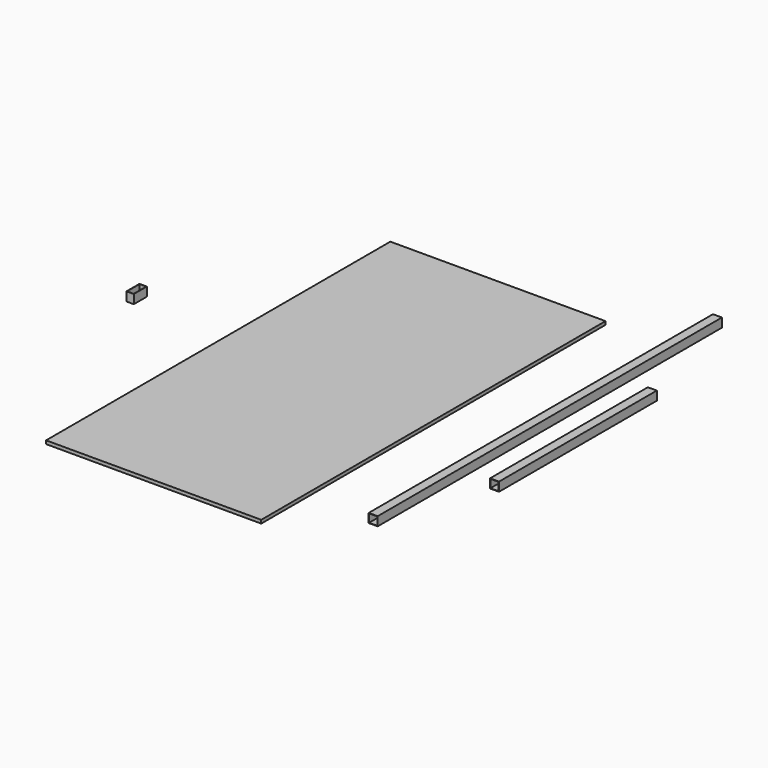
from build123d import *

# Parameters (mm, degrees)
F0_W     = 1219.2
F0_H     = 2438.4
F1_DEPTH = 19.05
F2_W     = 41.402
F2_H     = 92.202
F2_W_2   = 38.1
F2_H_2   = 88.9
F3_DEPTH = 50.8
F4_W     = 50.8
F4_H     = 2438.4
F4_H_2   = 1117.6
F5_DEPTH = 50.8
F6_W     = 46.5836
F6_H     = 46.5836
F7_DEPTH = 1778
F8_W     = 46.5836
F8_H     = 46.5836
F9_DEPTH = 1244.6


with BuildPart() as f1:
    # F0 (on Top) → F1 (new body)
    with BuildSketch(Plane.XY):
        Rectangle(F0_W, F0_H)
    extrude(amount=F1_DEPTH)


with BuildPart() as f3:
    # F2 (on Top) → F3 (new body)
    with BuildSketch(Plane.XY):
        with Locations((-1164.913838, 116.226979)):
            Rectangle(F2_W, F2_H)
        with Locations((-1164.913838, 116.226979)):
            Rectangle(F2_W_2, F2_H_2, mode=Mode.SUBTRACT)
    extrude(amount=F3_DEPTH)


with BuildPart() as f5:
    # F4 (on Top) → F5 (new body)
    with BuildSketch(Plane.XY):
        with Locations((1002.968233, 301.271483)):
            Rectangle(F4_W, F4_H)
        with Locations((1215.314906, 234.904307)):
            Rectangle(F4_W, F4_H_2)
    extrude(amount=F5_DEPTH)

    # F6 (on face) → F7 (cut)
    with BuildSketch(Plane.XZ.offset(917.928517)):
        with Locations((1002.968233, 25.4)):
            Rectangle(F6_W, F6_H)
    extrude(amount=-F7_DEPTH, mode=Mode.SUBTRACT)

    # F8 (on face) → F9 (cut)
    with BuildSketch(Plane.XZ.offset(323.895693)):
        with Locations((1215.314906, 25.4)):
            Rectangle(F8_W, F8_H)
    extrude(amount=-F9_DEPTH, mode=Mode.SUBTRACT)


solid = Compound([f1.part, f3.part, f5.part])
